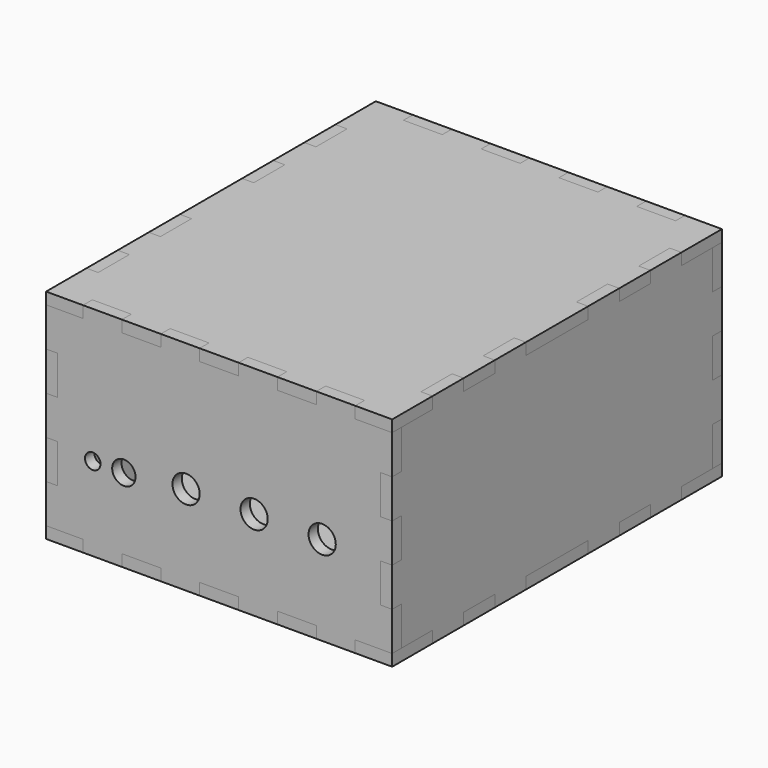
from build123d import *

# Parameters (mm, degrees)
SKETCH_W                    = 83
SKETCH_H                    = 50
SKETCH_R                    = 3
SKETCH_R_2                  = 3.5
SKETCH_R_3                  = 2
PAD_DEPTH                   = 3
SKETCH001_W                 = 10
SKETCH001_H                 = 3
PAD001_DEPTH                = 3
SKETCH001_MIRRORED_2_W      = 10
SKETCH001_MIRRORED_2_H      = 3
PAD001_MIRRORED_2_DEPTH     = 3
LINEARPATTERN_COUNT         = 3
LINEARPATTERN_PITCH         = 20
SKETCH002_W                 = 10
SKETCH002_H                 = 3
PAD002_DEPTH                = 3
SKETCH002_MIRRORED001_2_W   = 10
SKETCH002_MIRRORED001_2_H   = 3
PAD002_MIRRORED001_2_DEPTH  = 3
LINEARPATTERN001_COUNT      = 4
LINEARPATTERN001_PITCH      = 20
SKETCH003_W                 = 83
SKETCH003_H                 = 100
PAD003_DEPTH                = 3
SKETCH007_W                 = 5
SKETCH007_H                 = 3
SKETCH007_W_2               = 10
SKETCH007_W_3               = 9.5
PAD007_DEPTH                = 3
SKETCH007_MIRRORED004_2_W   = 5
SKETCH007_MIRRORED004_2_H   = 3
SKETCH007_MIRRORED004_2_W_2 = 10
SKETCH007_MIRRORED004_2_W_3 = 9.5
PAD007_MIRRORED004_2_DEPTH  = 3
SKETCH008_W                 = 13
SKETCH008_H                 = 3
SKETCH008_W_2               = 10
PAD008_DEPTH                = 3
SKETCH008_MIRRORED006_2_W   = 13
SKETCH008_MIRRORED006_2_H   = 3
SKETCH008_MIRRORED006_2_W_2 = 10
PAD008_MIRRORED006_2_DEPTH  = 3
SKETCH004_W                 = 83
SKETCH004_H                 = 50
SKETCH004_R                 = 3.25
SKETCH004_W_2               = 9
SKETCH004_H_2               = 11
PAD004_DEPTH                = 3
SKETCH005_W                 = 10
SKETCH005_H                 = 3
PAD005_DEPTH                = 3
SKETCH005_MIRRORED002_2_W   = 10
SKETCH005_MIRRORED002_2_H   = 3
PAD005_MIRRORED002_2_DEPTH  = 3
LINEARPATTERN002_COUNT      = 3
LINEARPATTERN002_PITCH      = 20
SKETCH006_W                 = 10
SKETCH006_H                 = 3
PAD006_DEPTH                = 3
SKETCH006_MIRRORED003_2_W   = 10
SKETCH006_MIRRORED003_2_H   = 3
PAD006_MIRRORED003_2_DEPTH  = 3
LINEARPATTERN003_COUNT      = 4
LINEARPATTERN003_PITCH      = 20
BODY002_PLACEMENT_ANGLE     = 180
SKETCH009_W                 = 100
SKETCH009_H                 = 50
PAD009_DEPTH                = 3
SKETCH010_W                 = 10
SKETCH010_H                 = 3
PAD010_DEPTH                = 3
SKETCH010_MIRRORED008_2_W   = 10
SKETCH010_MIRRORED008_2_H   = 3
PAD010_MIRRORED008_2_DEPTH  = 3
SKETCH011_W                 = 10
SKETCH011_H                 = 3
PAD011_DEPTH                = 3
SKETCH011_MIRRORED010_2_W   = 10
SKETCH011_MIRRORED010_2_H   = 3
PAD011_MIRRORED010_2_DEPTH  = 3
SKETCH012_W                 = 83
SKETCH012_H                 = 100
PAD012_DEPTH                = 3
SKETCH013_W                 = 5
SKETCH013_H                 = 3
SKETCH013_W_2               = 10
SKETCH013_W_3               = 9.5
PAD013_DEPTH                = 3
SKETCH013_MIRRORED012_2_W   = 5
SKETCH013_MIRRORED012_2_H   = 3
SKETCH013_MIRRORED012_2_W_2 = 10
SKETCH013_MIRRORED012_2_W_3 = 9.5
PAD013_MIRRORED012_2_DEPTH  = 3
SKETCH014_W                 = 13
SKETCH014_H                 = 3
SKETCH014_W_2               = 10
PAD014_DEPTH                = 3
SKETCH014_MIRRORED014_2_W   = 13
SKETCH014_MIRRORED014_2_H   = 3
SKETCH014_MIRRORED014_2_W_2 = 10
PAD014_MIRRORED014_2_DEPTH  = 3
SKETCH015_W                 = 100
SKETCH015_H                 = 50
PAD015_DEPTH                = 3
SKETCH016_W                 = 10
SKETCH016_H                 = 3
PAD016_DEPTH                = 3
SKETCH016_MIRRORED016_2_W   = 10
SKETCH016_MIRRORED016_2_H   = 3
PAD016_MIRRORED016_2_DEPTH  = 3
SKETCH017_W                 = 10
SKETCH017_H                 = 3
PAD017_DEPTH                = 3
SKETCH017_MIRRORED018_2_W   = 10
SKETCH017_MIRRORED018_2_H   = 3
PAD017_MIRRORED018_2_DEPTH  = 3


with BuildPart() as front_face:
    # Sketch → Pad (new body)
    with BuildSketch(Plane.XZ):
        Rectangle(SKETCH_W, SKETCH_H)
        with Locations((-24.5, -6.5)):
            Circle(SKETCH_R, mode=Mode.SUBTRACT)
        with Locations((26.5, -5)):
            Circle(SKETCH_R_2, mode=Mode.SUBTRACT)
        with Locations((9, -5)):
            Circle(SKETCH_R_2, mode=Mode.SUBTRACT)
        with Locations((-32.5, -6.5)):
            Circle(SKETCH_R_3, mode=Mode.SUBTRACT)
        with Locations((-8.5, -5)):
            Circle(SKETCH_R_2, mode=Mode.SUBTRACT)
    extrude(amount=PAD_DEPTH)

    # Sketch001 (on Face2 of Pad) → Pad001 (join)
    with BuildSketch(Plane(origin=(41.5, 0, 0), x_dir=(0, 0, 1), z_dir=(1, 0, 0))):
        with Locations((-20, 1.5)):
            Rectangle(SKETCH001_W, SKETCH001_H)
    pad001 = extrude(amount=PAD001_DEPTH)

    # Sketch001 Mirrored 2 → Pad001 Mirrored 2 (add)
    with BuildSketch(Plane(origin=(-41.5, 0, 0), x_dir=(0, 0, 1), z_dir=(1, 0, 0))):
        with Locations((-20, 1.5)):
            Rectangle(SKETCH001_MIRRORED_2_W, SKETCH001_MIRRORED_2_H)
    pad001_mirrored_2 = extrude(amount=-PAD001_MIRRORED_2_DEPTH)

    # LinearPattern: Pad001, Pad001 Mirrored 2 ×3
    with Locations(*[(0, 0, i * LINEARPATTERN_PITCH) for i in range(1, LINEARPATTERN_COUNT)]):
        add(pad001)
        add(pad001_mirrored_2)

    # Sketch002 (on Face1 of MultiTransform) → Pad002 (join)
    with BuildSketch(Plane(origin=(0, 0, 25), x_dir=(-1, 0, 0), z_dir=(0, 0, 1))):
        with Locations((-30, 1.5)):
            Rectangle(SKETCH002_W, SKETCH002_H)
    pad002 = extrude(amount=PAD002_DEPTH)

    # Sketch002 Mirrored001 2 → Pad002 Mirrored001 2 (add)
    with BuildSketch(Plane(origin=(0, 0, -25), x_dir=(-1, 0, 0), z_dir=(0, 0, 1))):
        with Locations((-30, 1.5)):
            Rectangle(SKETCH002_MIRRORED001_2_W, SKETCH002_MIRRORED001_2_H)
    pad002_mirrored001_2 = extrude(amount=-PAD002_MIRRORED001_2_DEPTH)

    # LinearPattern001: Pad002, Pad002 Mirrored001 2 ×4
    with Locations(*[(-i * LINEARPATTERN001_PITCH, 0, 0) for i in range(1, LINEARPATTERN001_COUNT)]):
        add(pad002)
        add(pad002_mirrored001_2)


with BuildPart() as front_face_1:
    # Body placement: moved
    add(front_face.part.moved(Location((0, -50, 0))))


with BuildPart() as bottom_face:
    # Sketch003 → Pad003 (new body)
    with BuildSketch(Plane.XY):
        Rectangle(SKETCH003_W, SKETCH003_H)
    extrude(amount=PAD003_DEPTH)

    # Sketch007 (on Face3 of Pad003) → Pad007 (join)
    with BuildSketch(Plane.XZ.offset(50)):
        with Locations((2.5, 1.5)):
            Rectangle(SKETCH007_W, SKETCH007_H)
        with Locations((20, 1.5)):
            Rectangle(SKETCH007_W_2, SKETCH007_H)
        with Locations((39.75, 1.5)):
            Rectangle(SKETCH007_W_3, SKETCH007_H)
    pad007 = extrude(amount=PAD007_DEPTH)

    # Sketch007 Mirrored004 2 → Pad007 Mirrored004 2 (add)
    with BuildSketch(Plane(origin=(0, -50, 0), x_dir=(-1, 0, 0), z_dir=(0, 1, 0))):
        with Locations((2.5, 1.5)):
            Rectangle(SKETCH007_MIRRORED004_2_W, SKETCH007_MIRRORED004_2_H)
        with Locations((20, 1.5)):
            Rectangle(SKETCH007_MIRRORED004_2_W_2, SKETCH007_MIRRORED004_2_H)
        with Locations((39.75, 1.5)):
            Rectangle(SKETCH007_MIRRORED004_2_W_3, SKETCH007_MIRRORED004_2_H)
    pad007_mirrored004_2 = extrude(amount=-PAD007_MIRRORED004_2_DEPTH)

    # Mirrored005: Pad007, Pad007 Mirrored004 2 across XZ
    add(pad007.mirror(Plane.XZ))
    add(pad007_mirrored004_2.mirror(Plane.XZ))

    # Sketch008 (on Face15 of MultiTransform004) → Pad008 (join)
    with BuildSketch(Plane.YZ.offset(41.5)):
        with Locations((-46.5, 1.5)):
            Rectangle(SKETCH008_W, SKETCH008_H)
        with Locations((-25, 1.5)):
            Rectangle(SKETCH008_W_2, SKETCH008_H)
        with Locations((-5, 1.5)):
            Rectangle(SKETCH008_W_2, SKETCH008_H)
    pad008 = extrude(amount=PAD008_DEPTH)

    # Sketch008 Mirrored006 2 → Pad008 Mirrored006 2 (add)
    with BuildSketch(Plane(origin=(41.5, 0, 0), x_dir=(0, -1, 0), z_dir=(-1, 0, 0))):
        with Locations((-46.5, 1.5)):
            Rectangle(SKETCH008_MIRRORED006_2_W, SKETCH008_MIRRORED006_2_H)
        with Locations((-25, 1.5)):
            Rectangle(SKETCH008_MIRRORED006_2_W_2, SKETCH008_MIRRORED006_2_H)
        with Locations((-5, 1.5)):
            Rectangle(SKETCH008_MIRRORED006_2_W_2, SKETCH008_MIRRORED006_2_H)
    pad008_mirrored006_2 = extrude(amount=-PAD008_MIRRORED006_2_DEPTH)

    # Mirrored007: Pad008, Pad008 Mirrored006 2 across YZ
    add(pad008.mirror(Plane.YZ))
    add(pad008_mirrored006_2.mirror(Plane.YZ))


with BuildPart() as bottom_face_1:
    # Body001 placement: moved
    add(bottom_face.part.moved(Location((0, 0, -28))))


with BuildPart() as back_face:
    # Sketch004 → Pad004 (new body)
    with BuildSketch(Plane.XZ):
        Rectangle(SKETCH004_W, SKETCH004_H)
        with Locations((-31.5, -7)):
            Circle(SKETCH004_R, mode=Mode.SUBTRACT)
        with Locations((32, -1.5)):
            Rectangle(SKETCH004_W_2, SKETCH004_H_2, mode=Mode.SUBTRACT)
        with BuildLine():
            ThreePointArc((-10, 2.5), (-12.5, 0), (-10, -2.5))
            Line((-10, -2.5), (10, -2.5))
            ThreePointArc((10, -2.5), (12.5, 0), (10, 2.5))
            Line((-10, 2.5), (10, 2.5))
        make_face(mode=Mode.SUBTRACT)
    extrude(amount=PAD004_DEPTH)

    # Sketch005 (on Face2 of Pad004) → Pad005 (join)
    with BuildSketch(Plane(origin=(41.5, 0, 0), x_dir=(0, 0, 1), z_dir=(1, 0, 0))):
        with Locations((-20, 1.5)):
            Rectangle(SKETCH005_W, SKETCH005_H)
    pad005 = extrude(amount=PAD005_DEPTH)

    # Sketch005 Mirrored002 2 → Pad005 Mirrored002 2 (add)
    with BuildSketch(Plane(origin=(-41.5, 0, 0), x_dir=(0, 0, 1), z_dir=(1, 0, 0))):
        with Locations((-20, 1.5)):
            Rectangle(SKETCH005_MIRRORED002_2_W, SKETCH005_MIRRORED002_2_H)
    pad005_mirrored002_2 = extrude(amount=-PAD005_MIRRORED002_2_DEPTH)

    # LinearPattern002: Pad005, Pad005 Mirrored002 2 ×3
    with Locations(*[(0, 0, i * LINEARPATTERN002_PITCH) for i in range(1, LINEARPATTERN002_COUNT)]):
        add(pad005)
        add(pad005_mirrored002_2)

    # Sketch006 (on Face1 of MultiTransform002) → Pad006 (join)
    with BuildSketch(Plane(origin=(0, 0, 25), x_dir=(-1, 0, 0), z_dir=(0, 0, 1))):
        with Locations((-30, 1.5)):
            Rectangle(SKETCH006_W, SKETCH006_H)
    pad006 = extrude(amount=PAD006_DEPTH)

    # Sketch006 Mirrored003 2 → Pad006 Mirrored003 2 (add)
    with BuildSketch(Plane(origin=(0, 0, -25), x_dir=(-1, 0, 0), z_dir=(0, 0, 1))):
        with Locations((-30, 1.5)):
            Rectangle(SKETCH006_MIRRORED003_2_W, SKETCH006_MIRRORED003_2_H)
    pad006_mirrored003_2 = extrude(amount=-PAD006_MIRRORED003_2_DEPTH)

    # LinearPattern003: Pad006, Pad006 Mirrored003 2 ×4
    with Locations(*[(-i * LINEARPATTERN003_PITCH, 0, 0) for i in range(1, LINEARPATTERN003_COUNT)]):
        add(pad006)
        add(pad006_mirrored003_2)


with BuildPart() as back_face_1:
    # Body002 placement: moved
    add(back_face.part.moved(Location((0, 50, 0))).rotate(Axis((0, 50, 0), (0, 0, 1)), BODY002_PLACEMENT_ANGLE))


with BuildPart() as right_face:
    # Sketch009 → Pad009 (new body)
    with BuildSketch(Plane.YZ):
        Rectangle(SKETCH009_W, SKETCH009_H)
    extrude(amount=PAD009_DEPTH)

    # Sketch010 (on Face4 of Pad009) → Pad010 (join)
    with BuildSketch(Plane(origin=(0, -50, 0), x_dir=(0, 0, -1), z_dir=(0, -1, 0))):
        with Locations((10, 1.5)):
            Rectangle(SKETCH010_W, SKETCH010_H)
    pad010 = extrude(amount=PAD010_DEPTH)

    # Sketch010 Mirrored008 2 → Pad010 Mirrored008 2 (add)
    with BuildSketch(Plane.ZX.offset(-50)):
        with Locations((10, 1.5)):
            Rectangle(SKETCH010_MIRRORED008_2_W, SKETCH010_MIRRORED008_2_H)
    pad010_mirrored008_2 = extrude(amount=-PAD010_MIRRORED008_2_DEPTH)

    # Mirrored009: Pad010, Pad010 Mirrored008 2 across XZ
    add(pad010.mirror(Plane.XZ))
    add(pad010_mirrored008_2.mirror(Plane.XZ))

    # Sketch011 (on Face12 of MultiTransform006) → Pad011 (join)
    with BuildSketch(Plane.YX.offset(25)):
        with Locations((-15, 1.5)):
            Rectangle(SKETCH011_W, SKETCH011_H)
        with Locations((-35, 1.5)):
            Rectangle(SKETCH011_W, SKETCH011_H)
    pad011 = extrude(amount=PAD011_DEPTH)

    # Sketch011 Mirrored010 2 → Pad011 Mirrored010 2 (add)
    with BuildSketch(Plane(origin=(0, 0, -25), x_dir=(0, -1, 0), z_dir=(0, 0, 1))):
        with Locations((-15, 1.5)):
            Rectangle(SKETCH011_MIRRORED010_2_W, SKETCH011_MIRRORED010_2_H)
        with Locations((-35, 1.5)):
            Rectangle(SKETCH011_MIRRORED010_2_W, SKETCH011_MIRRORED010_2_H)
    pad011_mirrored010_2 = extrude(amount=-PAD011_MIRRORED010_2_DEPTH)

    # Mirrored011: Pad011, Pad011 Mirrored010 2 across XY
    add(pad011.mirror(Plane.XY))
    add(pad011_mirrored010_2.mirror(Plane.XY))


with BuildPart() as right_face_1:
    # Body003 placement: moved
    add(right_face.part.moved(Location((41.5, 0, 0))))


with BuildPart() as top_face:
    # Sketch012 → Pad012 (new body)
    with BuildSketch(Plane.XY):
        Rectangle(SKETCH012_W, SKETCH012_H)
    extrude(amount=PAD012_DEPTH)

    # Sketch013 (on Face3 of Pad012) → Pad013 (join)
    with BuildSketch(Plane.XZ.offset(50)):
        with Locations((2.5, 1.5)):
            Rectangle(SKETCH013_W, SKETCH013_H)
        with Locations((20, 1.5)):
            Rectangle(SKETCH013_W_2, SKETCH013_H)
        with Locations((39.75, 1.5)):
            Rectangle(SKETCH013_W_3, SKETCH013_H)
    pad013 = extrude(amount=PAD013_DEPTH)

    # Sketch013 Mirrored012 2 → Pad013 Mirrored012 2 (add)
    with BuildSketch(Plane(origin=(0, -50, 0), x_dir=(-1, 0, 0), z_dir=(0, 1, 0))):
        with Locations((2.5, 1.5)):
            Rectangle(SKETCH013_MIRRORED012_2_W, SKETCH013_MIRRORED012_2_H)
        with Locations((20, 1.5)):
            Rectangle(SKETCH013_MIRRORED012_2_W_2, SKETCH013_MIRRORED012_2_H)
        with Locations((39.75, 1.5)):
            Rectangle(SKETCH013_MIRRORED012_2_W_3, SKETCH013_MIRRORED012_2_H)
    pad013_mirrored012_2 = extrude(amount=-PAD013_MIRRORED012_2_DEPTH)

    # Mirrored013: Pad013, Pad013 Mirrored012 2 across XZ
    add(pad013.mirror(Plane.XZ))
    add(pad013_mirrored012_2.mirror(Plane.XZ))

    # Sketch014 (on Face15 of MultiTransform008) → Pad014 (join)
    with BuildSketch(Plane.YZ.offset(41.5)):
        with Locations((-46.5, 1.5)):
            Rectangle(SKETCH014_W, SKETCH014_H)
        with Locations((-25, 1.5)):
            Rectangle(SKETCH014_W_2, SKETCH014_H)
        with Locations((-5, 1.5)):
            Rectangle(SKETCH014_W_2, SKETCH014_H)
    pad014 = extrude(amount=PAD014_DEPTH)

    # Sketch014 Mirrored014 2 → Pad014 Mirrored014 2 (add)
    with BuildSketch(Plane(origin=(41.5, 0, 0), x_dir=(0, -1, 0), z_dir=(-1, 0, 0))):
        with Locations((-46.5, 1.5)):
            Rectangle(SKETCH014_MIRRORED014_2_W, SKETCH014_MIRRORED014_2_H)
        with Locations((-25, 1.5)):
            Rectangle(SKETCH014_MIRRORED014_2_W_2, SKETCH014_MIRRORED014_2_H)
        with Locations((-5, 1.5)):
            Rectangle(SKETCH014_MIRRORED014_2_W_2, SKETCH014_MIRRORED014_2_H)
    pad014_mirrored014_2 = extrude(amount=-PAD014_MIRRORED014_2_DEPTH)

    # Mirrored015: Pad014, Pad014 Mirrored014 2 across YZ
    add(pad014.mirror(Plane.YZ))
    add(pad014_mirrored014_2.mirror(Plane.YZ))


with BuildPart() as top_face_1:
    # Body004 placement: moved
    add(top_face.part.moved(Location((0, 0, 25))))


with BuildPart() as left_face:
    # Sketch015 → Pad015 (new body)
    with BuildSketch(Plane.YZ):
        Rectangle(SKETCH015_W, SKETCH015_H)
    extrude(amount=PAD015_DEPTH)

    # Sketch016 (on Face4 of Pad015) → Pad016 (join)
    with BuildSketch(Plane(origin=(0, -50, 0), x_dir=(0, 0, -1), z_dir=(0, -1, 0))):
        with Locations((10, 1.5)):
            Rectangle(SKETCH016_W, SKETCH016_H)
    pad016 = extrude(amount=PAD016_DEPTH)

    # Sketch016 Mirrored016 2 → Pad016 Mirrored016 2 (add)
    with BuildSketch(Plane.ZX.offset(-50)):
        with Locations((10, 1.5)):
            Rectangle(SKETCH016_MIRRORED016_2_W, SKETCH016_MIRRORED016_2_H)
    pad016_mirrored016_2 = extrude(amount=-PAD016_MIRRORED016_2_DEPTH)

    # Mirrored017: Pad016, Pad016 Mirrored016 2 across XZ
    add(pad016.mirror(Plane.XZ))
    add(pad016_mirrored016_2.mirror(Plane.XZ))

    # Sketch017 (on Face12 of MultiTransform010) → Pad017 (join)
    with BuildSketch(Plane.YX.offset(25)):
        with Locations((-15, 1.5)):
            Rectangle(SKETCH017_W, SKETCH017_H)
        with Locations((-35, 1.5)):
            Rectangle(SKETCH017_W, SKETCH017_H)
    pad017 = extrude(amount=PAD017_DEPTH)

    # Sketch017 Mirrored018 2 → Pad017 Mirrored018 2 (add)
    with BuildSketch(Plane(origin=(0, 0, -25), x_dir=(0, -1, 0), z_dir=(0, 0, 1))):
        with Locations((-15, 1.5)):
            Rectangle(SKETCH017_MIRRORED018_2_W, SKETCH017_MIRRORED018_2_H)
        with Locations((-35, 1.5)):
            Rectangle(SKETCH017_MIRRORED018_2_W, SKETCH017_MIRRORED018_2_H)
    pad017_mirrored018_2 = extrude(amount=-PAD017_MIRRORED018_2_DEPTH)

    # Mirrored019: Pad017, Pad017 Mirrored018 2 across XY
    add(pad017.mirror(Plane.XY))
    add(pad017_mirrored018_2.mirror(Plane.XY))


with BuildPart() as left_face_1:
    # Body005 placement: moved
    add(left_face.part.moved(Location((-44.5, 0, 0))))


solid = Compound([front_face_1.part, bottom_face_1.part, back_face_1.part, right_face_1.part, top_face_1.part, left_face_1.part])
